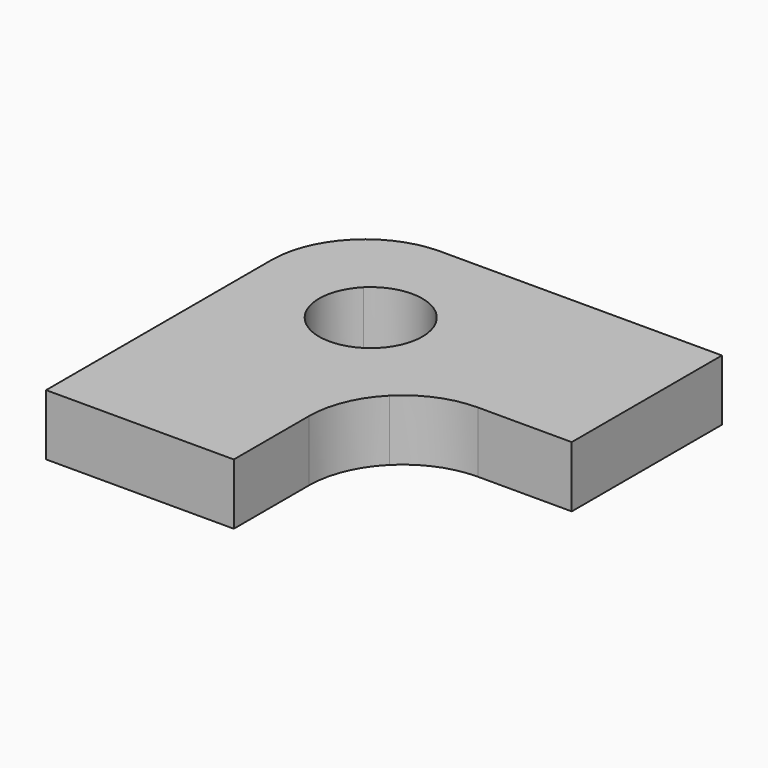
from build123d import *

# Parameters (mm, degrees)
F1_DEPTH = 3.25


with BuildPart() as f1:
    # F0 (on Top) → F1 (new body)
    with BuildSketch(Plane.XY):
        with BuildLine():
            Line((4.519922, -4.519922), (1.464466, -1.464466))
            ThreePointArc((1.464466, -1.464466), (0.380602, -3.086583), (0, -5))
            Line((0, -5), (0, -20))
            Line((0, -20), (10, -20))
            Line((10, -20), (10, -15))
            ThreePointArc((10, -15), (10.380602, -13.086583), (11.464466, -11.464466))
            Line((11.464466, -11.464466), (8.40901, -8.40901))
            ThreePointArc((8.40901, -8.40901), (4.519922, -8.40901), (4.519922, -4.519922))
        make_face()
        with BuildLine():
            Line((20, 0), (5, 0))
            ThreePointArc((5, 0), (3.086583, -0.380602), (1.464466, -1.464466))
            Line((1.464466, -1.464466), (4.519922, -4.519922))
            ThreePointArc((4.519922, -4.519922), (7.516846, -3.923797), (9.214466, -6.464466))
            ThreePointArc((9.214466, -6.464466), (9.005135, -7.516846), (8.40901, -8.40901))
            Line((8.40901, -8.40901), (11.464466, -11.464466))
            ThreePointArc((11.464466, -11.464466), (13.086583, -10.380602), (15, -10))
            Line((15, -10), (20, -10))
            Line((20, -10), (20, 0))
        make_face()
    extrude(amount=F1_DEPTH)


solid = f1.part
